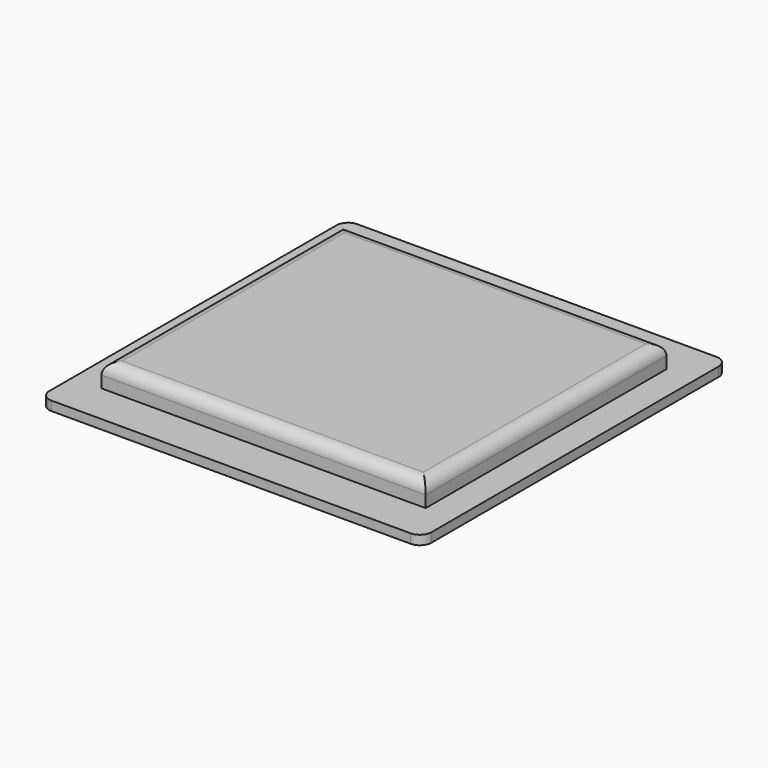
from build123d import *

# Parameters (mm, degrees)
PAD002_DEPTH = 0.4
SKETCH005_W  = 14
SKETCH005_H  = 13
PAD003_DEPTH = 1
FILLET_R     = 0.5


with BuildPart() as part:
    # Sketch004 → Pad002 (new body)
    with BuildSketch(Plane.XY):
        with BuildLine():
            Line((-8.25, 7.75), (-8.25, -7.75))
            ThreePointArc((-8.25, -7.75), (-8.103553, -8.103553), (-7.75, -8.25))
            Line((-7.75, -8.25), (7.75, -8.25))
            ThreePointArc((7.75, -8.25), (8.103553, -8.103553), (8.25, -7.75))
            Line((8.25, -7.75), (8.25, 7.75))
            ThreePointArc((8.25, 7.75), (8.103553, 8.103553), (7.75, 8.25))
            Line((7.75, 8.25), (-7.75, 8.25))
            ThreePointArc((-7.75, 8.25), (-8.103553, 8.103553), (-8.25, 7.75))
        make_face()
    extrude(amount=PAD002_DEPTH)

    # Sketch005 (on Face10 of Pad002) → Pad003 (join)
    with BuildSketch(Plane.XY.offset(0.4)):
        Rectangle(SKETCH005_W, SKETCH005_H)
    extrude(amount=PAD003_DEPTH)

    # Fillet
    fillet_edges = [part.edges().sort_by_distance(p)[0] for p in [
        (-7, 0, 1.4),
        (0, -6.5, 1.4),
        (7, 0, 1.4),
        (0, 6.5, 1.4),
    ]]
    fillet(fillet_edges, radius=FILLET_R)


solid = part.part
